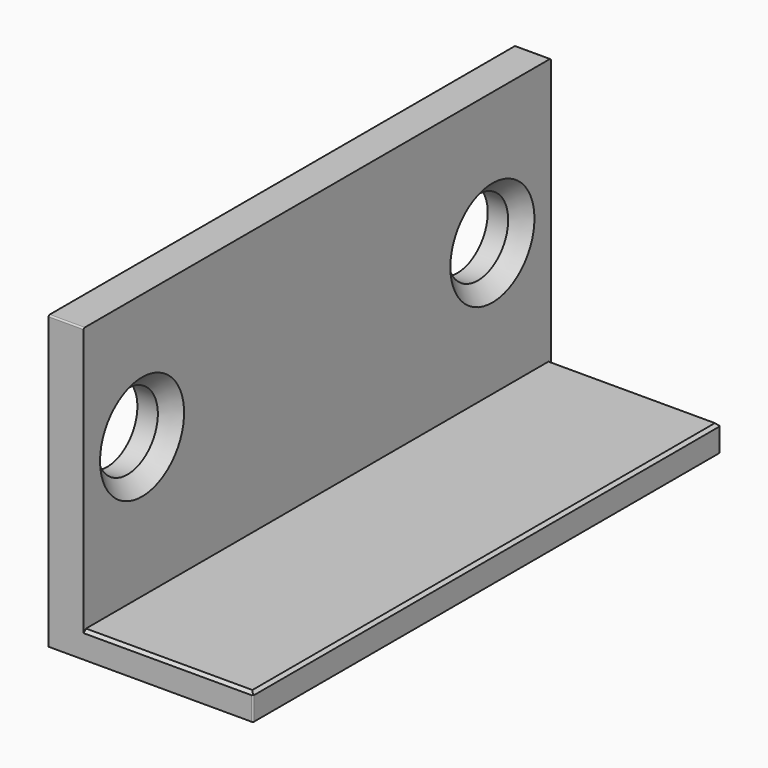
from build123d import *

# Parameters (mm, degrees)
F1_DEPTH       = 100
F3_D           = 13
F3_DEPTH       = 10
F3_CSINK_D     = 18
F3_CSINK_ANGLE = 90
F4_SIZE        = 0.5
F5_R           = 0.25


with BuildPart() as f1:
    # F0 (on Front) → F1 (new body)
    with BuildSketch(Plane.XZ):
        Polygon((0, 50), (0, 0), (35, 0), (35, 4.5), (6, 4.5), (6, 50), align=None)
    extrude(amount=F1_DEPTH)

    # F3
    with Locations(Plane.YZ.offset(6)):
        with Locations((-87.5, 28.514809), (-12.5, 27.276697)):
            CounterSinkHole(F3_D / 2, F3_CSINK_D / 2, depth=F3_DEPTH, counter_sink_angle=F3_CSINK_ANGLE)

    # F4
    f4_edges = [f1.edges().sort_by_distance(p)[0] for p in [
        (20.5, -100, 4.5),
        (35, -50, 4.5),
        (20.5, 0, 4.5),
    ]]
    chamfer(f4_edges, length=F4_SIZE)

    # F5
    f5_edges = [f1.edges().sort_by_distance(p)[0] for p in [
        (3, -100, 50),
        (3, 0, 50),
        (35, -100, 2),
        (35, 0, 2),
    ]]
    fillet(f5_edges, radius=F5_R)


solid = f1.part
